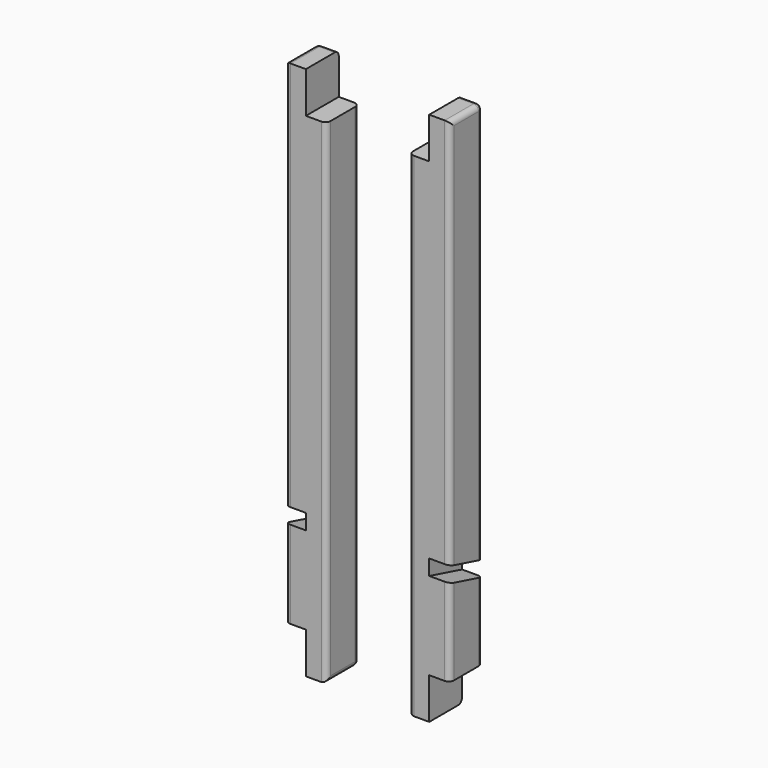
from build123d import *

# Parameters (mm, degrees)
F0_W          = 25.4
F0_H          = 50.8
F1_DEPTH      = 609.6
F2_DEPTH      = 50.8
F2_DEPTH_BACK = 558.8
F4_DEPTH      = 25.4
F5_R          = 6.35


with BuildPart() as f1:
    # F0 (on Top) → F1 (new body)
    with BuildSketch(Plane.XY):
        with Locations((12.7, 25.4)):
            Rectangle(F0_W, F0_H)
    extrude(amount=F1_DEPTH)

    # F0 (on Top) → F2 (join, two sides)
    with BuildSketch(Plane.XY) as f2_sk:
        with Locations((-12.7, 25.4)):
            Rectangle(F0_W, F0_H)
    extrude(amount=-F2_DEPTH)
    extrude(f2_sk.sketch, amount=F2_DEPTH_BACK)

    # F3 (on Right) → F4 (cut)
    with BuildSketch(Plane.YZ):
        Polygon((0, 127), (0, 107.95), (50.8, 94.3381810245), (50.8, 113.3881810245), align=None)
    extrude(amount=F4_DEPTH, mode=Mode.SUBTRACT)

    # F5
    f5_edges = [f1.edges().sort_by_distance(p)[0] for p in [
        (25.4, 50.8, 47.169091),
        (25.4, 50.8, 361.494091),
        (-25.4, 50.8, 254),
        (-12.7, 50.8, -50.8),
        (-25.4, 25.4, -50.8),
        (-25.4, 0, 254),
        (12.7, 50.8, 609.6),
        (25.4, 25.4, 609.6),
        (25.4, 0, 368.3),
        (25.4, 0, 53.975),
    ]]
    fillet(f5_edges, radius=F5_R)


with BuildPart() as f7_1:
    # F7: instance of F1
    add(f1.part.mirror(Plane.YZ.offset(-76.2)))


solid = Compound([f1.part, f7_1.part])
